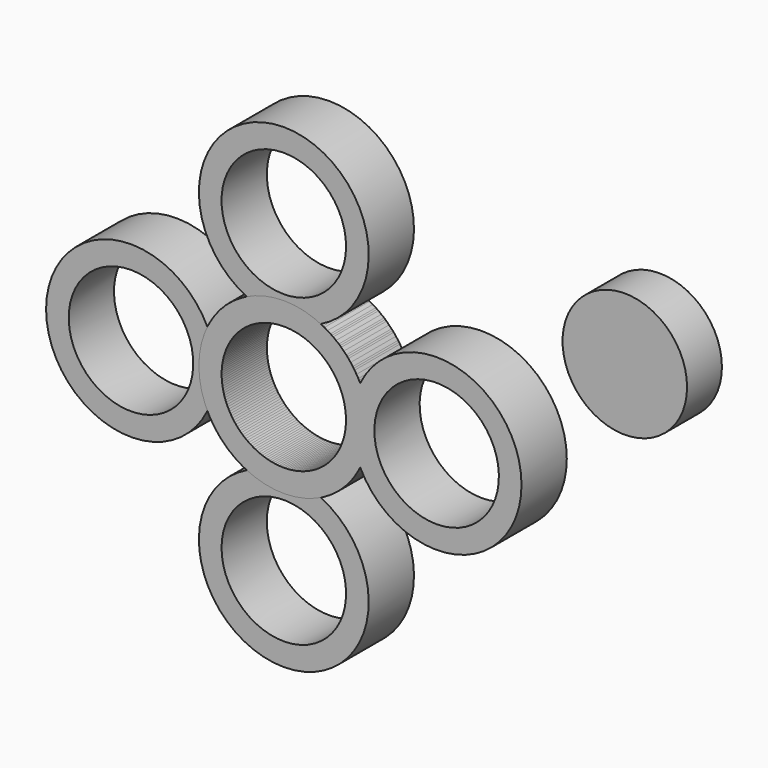
from build123d import *

# Parameters (mm, degrees)
F0_R     = 11
F1_DEPTH = 10
F2_COUNT = 4
F3_R     = 11
F4_DEPTH = 7.7


with BuildPart() as f1:
    # F0 (on Front) → F1 (new body)
    with BuildSketch(Plane.XZ):
        with BuildLine():
            ThreePointArc((6.538348, 13.5), (0, 42), (-6.538348, 13.5))
            ThreePointArc((-6.538348, 13.5), (0, -15), (6.538348, 13.5))
        make_face()
        Circle(F0_R, mode=Mode.SUBTRACT)
        with Locations((0, 27)):
            Circle(F0_R, mode=Mode.SUBTRACT)
    extrude(amount=F1_DEPTH)


with BuildPart() as f2_1:
    # F2: instance of F1
    add(f1.part.rotate(Axis((0, -10, 0), (0, -1, 0)), 1 * 360 / F2_COUNT))


with BuildPart() as f2_2:
    # F2: instance of F1
    add(f1.part.rotate(Axis((0, -10, 0), (0, -1, 0)), 2 * 360 / F2_COUNT))


with BuildPart() as f2_3:
    # F2: instance of F1
    add(f1.part.rotate(Axis((0, -10, 0), (0, -1, 0)), 3 * 360 / F2_COUNT))


with BuildPart() as f4:
    # F3 (on Front) → F4 (new body)
    with BuildSketch(Plane.XZ):
        with Locations((58.407798, 23.191946)):
            Circle(F3_R)
    extrude(amount=F4_DEPTH)


solid = Compound([f1.part, f2_1.part, f2_2.part, f2_3.part, f4.part])
